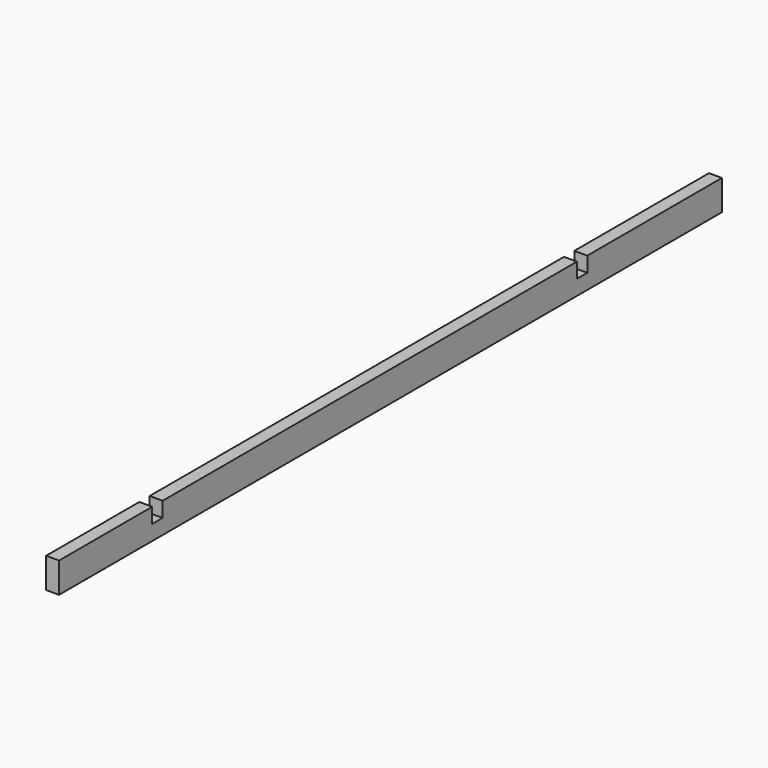
from build123d import *

# Parameters (mm, degrees)
BOX007_W        = 38.1
BOX007_H        = 2438.4
BOX007_DEPTH    = 88.9
SKETCH004_W     = 38.1
SKETCH004_H     = 44.45
POCKET004_DEPTH = 38.101


with BuildPart() as pocket004:
    # Box007 → Box007 (new body)
    with BuildSketch(Plane(origin=(0, -381, 457.2), x_dir=(1, 0, 0), z_dir=(0, 0, 1))):
        with Locations((19.05, 1219.2)):
            Rectangle(BOX007_W, BOX007_H)
    extrude(amount=BOX007_DEPTH)

    # Sketch004 → Pocket004 (cut, through all)
    with BuildSketch(Plane(origin=(0, -381, 457.2), x_dir=(0, -1, 0), z_dir=(-1, 0, 0))):
        with Locations((-361.95, 66.675)):
            Rectangle(SKETCH004_W, SKETCH004_H)
        with Locations((-1924.05, 66.675)):
            Rectangle(SKETCH004_W, SKETCH004_H)
    extrude(amount=-POCKET004_DEPTH, mode=Mode.SUBTRACT)


with BuildPart() as eastfloorbeam:
    # Part__Mirroring002: instance of Pocket004
    add(pocket004.part.mirror(Plane(origin=(762, 0, 0), x_dir=(0, -1, 0), z_dir=(1, 0, 0))))


solid = eastfloorbeam.part
